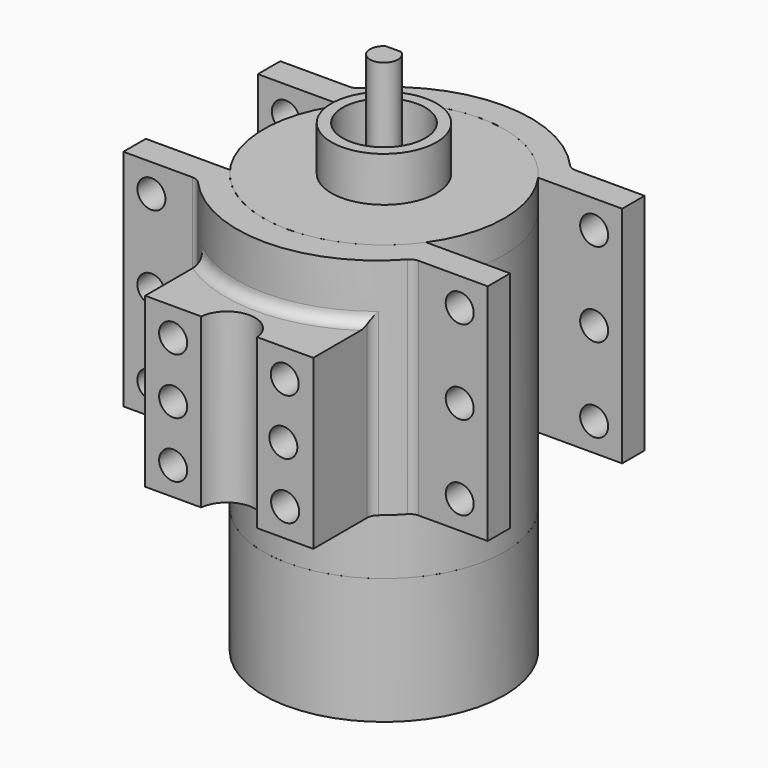
from build123d import *

# Parameters (mm, degrees)
F0_R      = 6.35
F1_DEPTH  = 47.625
F3_DEPTH  = 31.75
F4_R      = 23.8125
F4_R_2    = 18.7325
F5_DEPTH  = 20.32
F6_R      = 54.61
F6_R_2    = 6.35
F7_DEPTH  = 14.605
F8_R      = 54.5973
F9_DEPTH  = 118.491
F10_R     = 54.61
F10_R_2   = 54.5973
F11_DEPTH = 57.15
F13_DEPTH = 101.6
F15_DEPTH = 25.4
F16_DEPTH = 76.2
F18_DEPTH = 76.2
F20_D     = 12.7
F20_DEPTH = 12.7
F20_TIP   = 3.8154649308
F22_D     = 12.7
F22_2_D   = 12.7
F23_R     = 5.08
F23_2_R   = 5.08


with BuildPart() as f1:
    # F0 (on Top) → F1 (new body)
    with BuildSketch(Plane.XY):
        Circle(F0_R)
    extrude(amount=-F1_DEPTH)

    # F2 (on face) → F3 (cut)
    with BuildSketch(Plane.XY):
        with BuildLine():
            Line((-3.4925, 5.3032955556), (3.4925, 5.3032955556))
            ThreePointArc((3.4925, 5.3032955556), (0, 6.35), (-3.4925, 5.3032955556))
        make_face()
    extrude(amount=-F3_DEPTH, mode=Mode.SUBTRACT)


with BuildPart() as f5:
    # F4 (on face) → F5 (new body)
    with BuildSketch(Plane(origin=(0, 0, -47.625), x_dir=(1, 0, 0), z_dir=(0, 0, -1))):
        Circle(F4_R)
        Circle(F4_R_2, mode=Mode.SUBTRACT)
    extrude(amount=-F5_DEPTH)


with BuildPart() as f7:
    # F6 (on face) → F7 (new body)
    with BuildSketch(Plane(origin=(0, 0, -47.625), x_dir=(1, 0, 0), z_dir=(0, 0, -1))):
        Circle(F6_R)
        Circle(F6_R_2, mode=Mode.SUBTRACT)
        Circle(F6_R_2)
    extrude(amount=F7_DEPTH)

    # F8 (on face) → F9 (join)
    with BuildSketch(Plane(origin=(0, 0, -62.23), x_dir=(1, 0, 0), z_dir=(0, 0, -1))):
        Circle(F8_R)
    extrude(amount=F9_DEPTH)

    # F10 (on face) → F11 (join)
    with BuildSketch(Plane(origin=(0, 0, -180.721), x_dir=(1, 0, 0), z_dir=(0, 0, -1))):
        Circle(F10_R)
        Circle(F10_R_2, mode=Mode.SUBTRACT)
        Circle(F10_R_2)
    extrude(amount=F11_DEPTH)


with BuildPart() as f13:
    # F12 (on face) → F13 (new body)
    with BuildSketch(Plane.XY.offset(-47.625)):
        with BuildLine():
            Line((-82.55, 31.7245898319), (-44.45, 31.7245898319))
            ThreePointArc((-44.45, 31.7245898319), (-24.9977223891, 48.5527133676), (0, 54.61))
            Line((0, 54.61), (0, 67.31))
            ThreePointArc((0, 67.31), (-26.9947671741, 61.30558596), (-48.8991597124, 44.4245898319))
            Line((-48.8991597124, 44.4245898319), (-82.55, 44.4245898319))
            Line((-82.55, 44.4245898319), (-82.55, 31.7245898319))
        make_face()
        with BuildLine():
            ThreePointArc((0, 54.61), (24.9977223891, 48.5527133676), (44.45, 31.7245898319))
            Line((44.45, 31.7245898319), (82.55, 31.7245898319))
            Line((82.55, 31.7245898319), (82.55, 44.4245898319))
            Line((82.55, 44.4245898319), (48.8991597124, 44.4245898319))
            ThreePointArc((48.8991597124, 44.4245898319), (26.9947671741, 61.30558596), (0, 67.31))
            Line((0, 67.31), (0, 54.61))
        make_face()
    extrude(amount=-F13_DEPTH)

    # F22 (through all)
    with Locations(Plane.XZ.offset(44.4245898319)):
        with Locations((-69.85, -60.325), (-69.85, -98.425), (-69.85, -136.525), (69.85, -60.325), (69.85, -98.425), (69.85, -136.525)):
            Hole(F22_D / 2)

    # F23#2
    f23_2_edges = [f13.edges().sort_by_distance(p)[0] for p in [
        (-48.89916, 44.42459, -98.425),
        (48.89916, 44.42459, -98.425),
    ]]
    fillet(f23_2_edges, radius=F23_2_R)


with BuildPart() as f15:
    # F14 (on face) → F15 (new body)
    with BuildSketch(Plane.XY.offset(-47.625)):
        with BuildLine():
            Line((82.55, -31.7245898319), (44.45, -31.7245898319))
            ThreePointArc((44.45, -31.7245898319), (24.9977223891, -48.5527133676), (0, -54.61))
            Line((0, -54.61), (0, -67.31))
            ThreePointArc((0, -67.31), (26.9947671741, -61.30558596), (48.8991597124, -44.4245898319))
            Line((48.8991597124, -44.4245898319), (82.55, -44.4245898319))
            Line((82.55, -44.4245898319), (82.55, -31.7245898319))
        make_face()
        with BuildLine():
            ThreePointArc((0, -54.61), (-24.9977223891, -48.5527133676), (-44.45, -31.7245898319))
            Line((-44.45, -31.7245898319), (-82.55, -31.7245898319))
            Line((-82.55, -31.7245898319), (-82.55, -44.4245898319))
            Line((-82.55, -44.4245898319), (-48.8991597124, -44.4245898319))
            ThreePointArc((-48.8991597124, -44.4245898319), (-26.9947671741, -61.30558596), (0, -67.31))
            Line((0, -67.31), (0, -54.61))
        make_face()
    extrude(amount=-F15_DEPTH)

    # F16 (add): faces of the model
    f16_faces = [f15.faces().sort_by_distance(p)[0] for p in [
        (80.8610852178, -38.0745898319, -73.025),
        (80.8610852178, -38.0745898319, -73.025),
    ]]
    extrude(f16_faces, amount=F16_DEPTH)

    # F17 (on face) → F18 (join)
    with BuildSketch(Plane(origin=(0, 0, -149.225), x_dir=(1, 0, 0), z_dir=(0, 0, -1))):
        with BuildLine():
            Line((-38.1, 87.6758182624), (-38.1, 54.6558182624))
            ThreePointArc((-38.1, 54.6558182624), (0, 67.31), (38.1, 54.6558182624))
            Line((38.1, 54.6558182624), (38.1, 87.6758182624))
            Line((38.1, 87.6758182624), (12.7, 87.6758182624))
            ThreePointArc((12.7, 87.6758182624), (0, 76.2), (-12.7, 87.6758182624))
            Line((-12.7, 87.6758182624), (-38.1, 87.6758182624))
        make_face()
    extrude(amount=-F18_DEPTH)

    # F20
    with Locations(Plane.XZ.offset(87.6758182624)):
        with Locations((-25.4, -85.725), (25.1709398942, -85.725), (-25.4, -111.125), (24.5334483168, -111.125), (-25.4, -136.525), (25.347779546, -136.525)):
            Hole(F20_D / 2, depth=F20_DEPTH)
            with Locations((0, 0, -(F20_DEPTH + F20_TIP / 2))):  # 118° drill point
                Cone(0, F20_D / 2, F20_TIP, mode=Mode.SUBTRACT)

    # F22#2 (through all)
    with Locations(Plane.XZ.offset(44.4245898319)):
        with Locations((-69.85, -60.325), (-69.85, -98.425), (-69.85, -136.525), (69.85, -60.325), (69.85, -98.425), (69.85, -136.525)):
            Hole(F22_2_D / 2)

    # F23
    f23_edges = [f15.edges().sort_by_distance(p)[0] for p in [
        (-38.1, -54.655818, -111.125),
        (0, -67.31, -73.025),
        (38.1, -54.655818, -111.125),
        (48.89916, -44.42459, -98.425),
        (-48.89916, -44.42459, -98.425),
    ]]
    fillet(f23_edges, radius=F23_R)


solid = Compound([f1.part, f5.part, f7.part, f13.part, f15.part])
